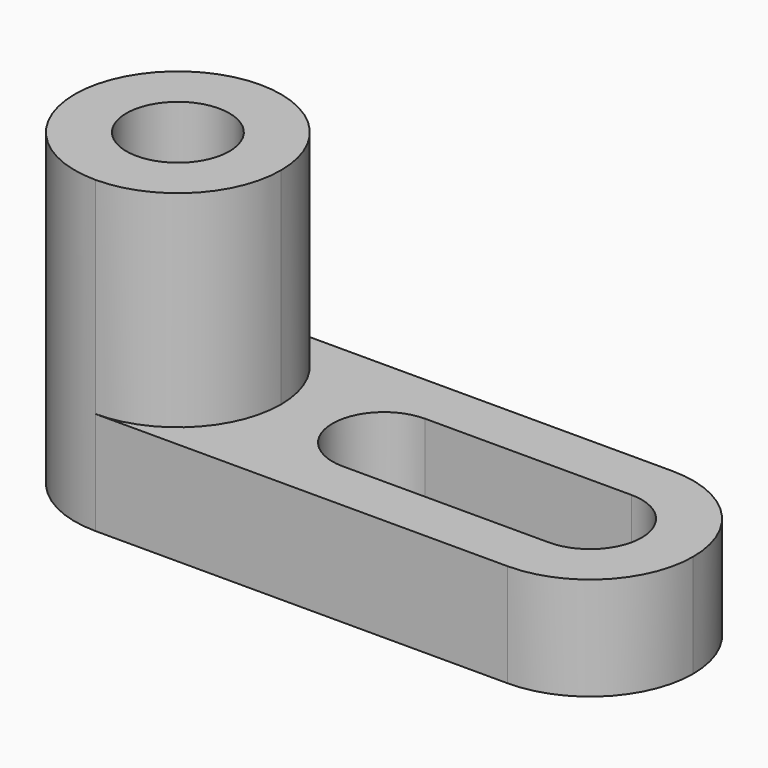
from build123d import *

# Parameters (mm, degrees)
F1_DEPTH = 25.4
F3_DEPTH = 25.4
F4_R     = 6.35
F5_DEPTH = 38.1
F7_DEPTH = 25.4


with BuildPart() as f1:
    # F0 (on Front) → F1 (new body)
    with BuildSketch(Plane.XZ):
        Polygon((-8.18444619, 25.4), (-33.58444619, 25.4), (-33.58444619, -12.7), (42.61555381, -12.7), (42.61555381, 0), (-8.18444619, 0), align=None)
    extrude(amount=F1_DEPTH)

    # F2 (on face) → F3 (cut)
    with BuildSketch(Plane.XY):
        with BuildLine():
            ThreePointArc((29.91555381, -19.05), (34.4056818705, -17.1901280605), (36.26555381, -12.7))
            ThreePointArc((36.26555381, -12.7), (34.4056818705, -8.2098719395), (29.91555381, -6.35))
            ThreePointArc((29.91555381, -6.35), (23.56555381, -12.7), (29.91555381, -19.05))
        make_face()
        with BuildLine():
            ThreePointArc((29.91555381, -19.05), (23.56555381, -12.7), (29.91555381, -6.35))
            Line((29.91555381, -6.35), (4.51555381, -6.35))
            ThreePointArc((4.51555381, -6.35), (9.0056818705, -8.2098719395), (10.86555381, -12.7))
            ThreePointArc((10.86555381, -12.7), (9.0056818705, -17.1901280605), (4.51555381, -19.05))
            Line((4.51555381, -19.05), (29.91555381, -19.05))
        make_face()
        with BuildLine():
            ThreePointArc((10.86555381, -12.7), (9.0056818705, -8.2098719395), (4.51555381, -6.35))
            ThreePointArc((4.51555381, -6.35), (-1.83444619, -12.7), (4.51555381, -19.05))
            ThreePointArc((4.51555381, -19.05), (9.0056818705, -17.1901280605), (10.86555381, -12.7))
        make_face()
        with BuildLine():
            Line((42.61555381, 0), (29.91555381, 0))
            ThreePointArc((29.91555381, 0), (38.8958099311, -3.7197438789), (42.61555381, -12.7))
            Line((42.61555381, -12.7), (42.61555381, 0))
        make_face()
        with BuildLine():
            Line((42.61555381, -25.4), (42.61555381, -12.7))
            ThreePointArc((42.61555381, -12.7), (38.8958099311, -21.6802561211), (29.91555381, -25.4))
            Line((29.91555381, -25.4), (42.61555381, -25.4))
        make_face()
    extrude(amount=-F3_DEPTH, mode=Mode.SUBTRACT)

    # F4 (on face) → F5 (cut)
    with BuildSketch(Plane.XY.offset(25.4)):
        with Locations((-20.88444619, -12.7)):
            Circle(F4_R)
        with BuildLine():
            ThreePointArc((-33.58444619, -12.7), (-29.8647023111, -3.7197438789), (-20.88444619, 0))
            Line((-20.88444619, 0), (-33.58444619, 0))
            Line((-33.58444619, 0), (-33.58444619, -12.7))
        make_face()
        with BuildLine():
            ThreePointArc((-20.88444619, -25.4), (-29.8647023111, -21.6802561211), (-33.58444619, -12.7))
            Line((-33.58444619, -12.7), (-33.58444619, -25.4))
            Line((-33.58444619, -25.4), (-20.88444619, -25.4))
        make_face()
    extrude(amount=-F5_DEPTH, mode=Mode.SUBTRACT)

    # F6 (on face) → F7 (cut)
    with BuildSketch(Plane.XY.offset(25.4)):
        with BuildLine():
            Line((-17.6424365491, 0), (-20.88444619, 0))
            ThreePointArc((-20.88444619, 0), (-11.9041900689, -3.7197438789), (-8.18444619, -12.7))
            Line((-8.18444619, -12.7), (-8.18444619, 0))
            Line((-8.18444619, 0), (-17.6424365491, 0))
        make_face()
        with BuildLine():
            Line((-8.18444619, -25.4), (-8.18444619, -12.7))
            ThreePointArc((-8.18444619, -12.7), (-11.9041900689, -21.6802561211), (-20.88444619, -25.4))
            Line((-20.88444619, -25.4), (-18.5709856451, -25.4))
            Line((-18.5709856451, -25.4), (-8.18444619, -25.4))
        make_face()
    extrude(amount=-F7_DEPTH, mode=Mode.SUBTRACT)


solid = f1.part
